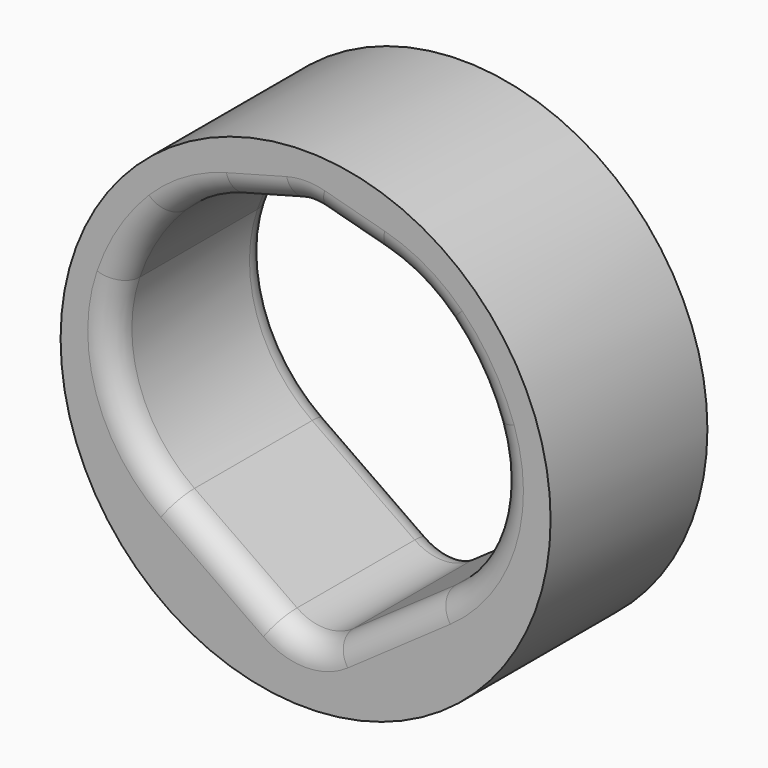
from build123d import *

# Parameters (mm, degrees)
F0_R     = 15.875
F1_DEPTH = 6.35
F2_R     = 9.525
F3_R     = 3.175
F4_R     = 1.5875


with BuildPart() as f1:
    # F0 (on Front) → F1 (new body, symmetric)
    with BuildSketch(Plane.XZ):
        Circle(F0_R)
        with BuildLine():
            ThreePointArc((-11.934096284, -4.3436558202), (-11.934096284, 4.3436558202), (-6.35, 10.9985226281))
            Line((-6.35, 10.9985226281), (0, 12.7))
            Line((0, 12.7), (6.35, 10.9985226281))
            ThreePointArc((6.35, 10.9985226281), (11.934096284, 4.3436558202), (11.934096284, -4.3436558202))
            Line((11.934096284, -4.3436558202), (0, -12.7))
            Line((0, -12.7), (-11.934096284, -4.3436558202))
        make_face(mode=Mode.SUBTRACT)
    extrude(amount=F1_DEPTH, both=True)

    # F2
    f2_edges = [f1.edges().sort_by_distance(p)[0] for p in [
        (-11.934096, 0, -4.343656),
        (11.934096, 0, -4.343656),
        (-6.35, 0, 10.998523),
        (6.35, 0, 10.998523),
    ]]
    fillet(f2_edges, radius=F2_R)

    # F3
    f3_edges = [f1.edges().sort_by_distance(p)[0] for p in [
        (0, 0, -12.7),
        (0, 0, 12.7),
    ]]
    fillet(f3_edges, radius=F3_R)

    # F4
    f4_edges = [f1.edges().sort_by_distance(p)[0] for p in [
        (2.771213, -6.35, 11.957456),
        (2.771213, 6.35, 11.957456),
        (0, -6.35, -11.999041),
        (0, 6.35, -11.999041),
    ]]
    fillet(f4_edges, radius=F4_R)


solid = f1.part
